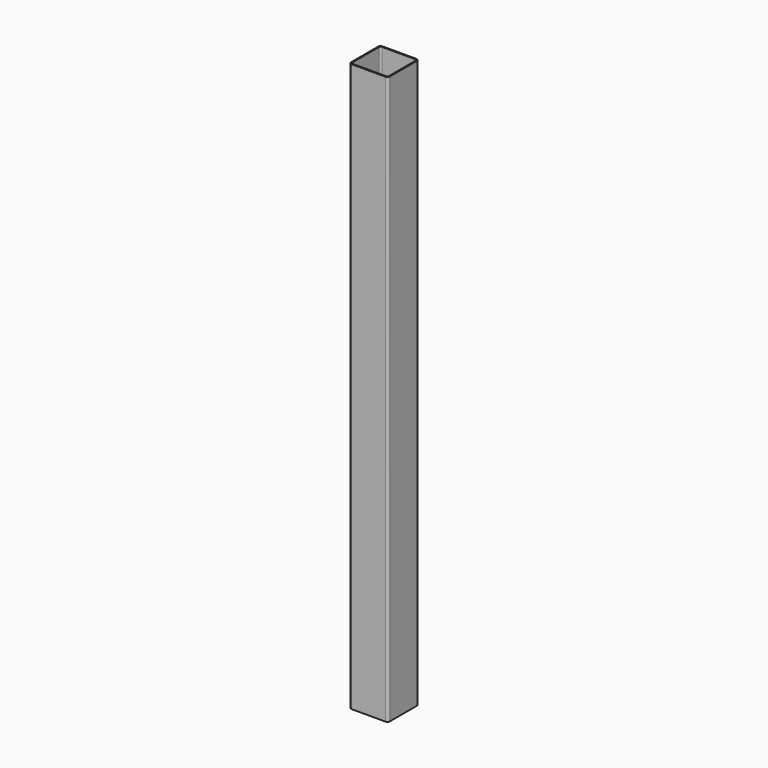
from build123d import *

# Parameters (mm, degrees)
F1_DEPTH = 1100


with BuildPart() as f1:
    # F0 (on Top) → F1 (new body)
    with BuildSketch(Plane.XY):
        with BuildLine():
            Line((31.411291, 33.797425), (-33.588709, 33.797425))
            ThreePointArc((-33.588709, 33.797425), (-37.124243, 32.332959), (-38.588709, 28.797425))
            Line((-38.588709, 28.797425), (-38.588709, -36.202575))
            ThreePointArc((-38.588709, -36.202575), (-37.124243, -39.738109), (-33.588709, -41.202575))
            Line((-33.588709, -41.202575), (31.411291, -41.202575))
            ThreePointArc((31.411291, -41.202575), (34.946825, -39.738109), (36.411291, -36.202575))
            Line((36.411291, -36.202575), (36.411291, 28.797425))
            ThreePointArc((36.411291, 28.797425), (34.946825, 32.332959), (31.411291, 33.797425))
        make_face()
        with BuildLine():
            Line((31.411291, -39.202575), (-33.588709, -39.202575))
            ThreePointArc((-33.588709, -39.202575), (-35.710029, -38.323896), (-36.588709, -36.202575))
            Line((-36.588709, -36.202575), (-36.588709, 28.797425))
            ThreePointArc((-36.588709, 28.797425), (-35.710029, 30.918745), (-33.588709, 31.797425))
            Line((-33.588709, 31.797425), (31.411291, 31.797425))
            ThreePointArc((31.411291, 31.797425), (33.532612, 30.918745), (34.411291, 28.797425))
            Line((34.411291, 28.797425), (34.411291, -36.202575))
            ThreePointArc((34.411291, -36.202575), (33.532612, -38.323896), (31.411291, -39.202575))
        make_face(mode=Mode.SUBTRACT)
    extrude(amount=F1_DEPTH)


solid = f1.part
